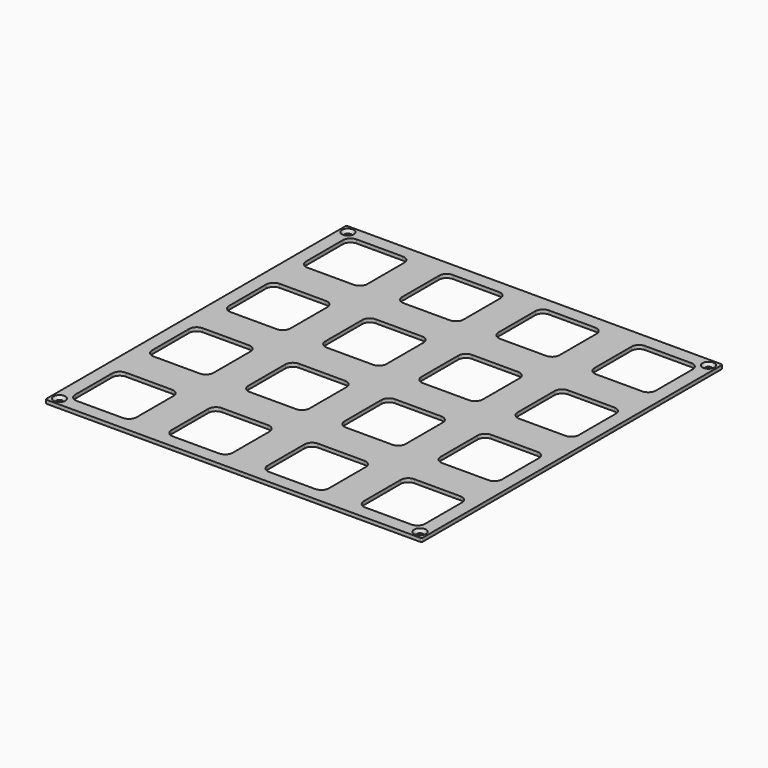
from build123d import *

# Parameters (mm, degrees)
PAD_DEPTH        = 1
POCKET_DEPTH     = 0.001
HOLE_D           = 1.75
HOLE_CSINK_D     = 3.3
HOLE_CSINK_ANGLE = 90
POCKET001_DEPTH  = 1.001


with BuildPart() as part:
    # Sketch → Pad (new body)
    with BuildSketch(Plane.XY):
        with BuildLine():
            Line((-51.8, 52.175), (51.8, 52.175))
            ThreePointArc((52.175, 51.8), (52.065165, 52.065165), (51.8, 52.175))
            Line((52.175, 51.8), (52.175, -51.8))
            ThreePointArc((51.8, -52.175), (52.065165, -52.065165), (52.175, -51.8))
            Line((51.8, -52.175), (-51.8, -52.175))
            ThreePointArc((-52.175, -51.8), (-52.065165, -52.065165), (-51.8, -52.175))
            Line((-52.175, -51.8), (-52.175, 51.8))
            ThreePointArc((-51.8, 52.175), (-52.065165, 52.065165), (-52.175, 51.8))
        make_face()
    extrude(amount=-PAD_DEPTH)

    # Sketch002 → Pocket (cut, through all)
    with BuildSketch(Plane.XY.offset(-4.8)):
        with BuildLine():
            Line((-45, 50.175), (45, 50.175))
            ThreePointArc((45, 50.175), (45.353553, 50.321447), (45.5, 50.675))
            ThreePointArc((45.5, 50.675), (45.353553, 51.028553), (45, 51.175))
            Line((-45, 51.175), (45, 51.175))
            ThreePointArc((-45, 51.175), (-45.353553, 51.028553), (-45.5, 50.675))
            ThreePointArc((-45.5, 50.675), (-45.353553, 50.321447), (-45, 50.175))
        make_face()
        with BuildLine():
            Line((-45, -51.175), (45, -51.175))
            ThreePointArc((45, -51.175), (45.353553, -51.028553), (45.5, -50.675))
            ThreePointArc((45.5, -50.675), (45.353553, -50.321447), (45, -50.175))
            Line((-45, -50.175), (45, -50.175))
            ThreePointArc((-45, -50.175), (-45.353553, -50.321447), (-45.5, -50.675))
            ThreePointArc((-45.5, -50.675), (-45.353553, -51.028553), (-45, -51.175))
        make_face()
        with BuildLine():
            Line((51.175, -45), (51.175, 45))
            ThreePointArc((51.175, 45), (51.028553, 45.353553), (50.675, 45.5))
            ThreePointArc((50.675, 45.5), (50.321447, 45.353553), (50.175, 45))
            Line((50.175, -45), (50.175, 45))
            ThreePointArc((50.175, -45), (50.321447, -45.353553), (50.675, -45.5))
            ThreePointArc((50.675, -45.5), (51.028553, -45.353553), (51.175, -45))
        make_face()
        with BuildLine():
            Line((-50.175, -45), (-50.175, 45))
            ThreePointArc((-50.175, 45), (-50.321447, 45.353553), (-50.675, 45.5))
            ThreePointArc((-50.675, 45.5), (-51.028553, 45.353553), (-51.175, 45))
            Line((-51.175, -45), (-51.175, 45))
            ThreePointArc((-51.175, -45), (-51.028553, -45.353553), (-50.675, -45.5))
            ThreePointArc((-50.675, -45.5), (-50.321447, -45.353553), (-50.175, -45))
        make_face()
    extrude(amount=-POCKET_DEPTH, mode=Mode.SUBTRACT)

    # Hole (through all)
    with Locations(Plane.XY):
        with Locations((-50, 50), (50, 50), (50, -50), (-50, -50)):
            CounterSinkHole(HOLE_D / 2, HOLE_CSINK_D / 2, counter_sink_angle=HOLE_CSINK_ANGLE)

    # Sketch008 → Pocket001 (cut, through all)
    with BuildSketch(Plane.XY):
        with BuildLine():
            Line((33.605, 31.505), (46.405, 31.505))
            ThreePointArc((46.405, 31.505), (47.889924, 32.120076), (48.505, 33.605))
            Line((48.505, 33.605), (48.505, 46.405))
            ThreePointArc((48.505, 46.405), (47.889924, 47.889924), (46.405, 48.505))
            Line((46.405, 48.505), (33.605, 48.505))
            ThreePointArc((33.605, 48.505), (32.120076, 47.889924), (31.505, 46.405))
            Line((31.505, 46.405), (31.505, 33.605))
            ThreePointArc((31.505, 33.605), (32.120076, 32.120076), (33.605, 31.505))
        make_face()
        with BuildLine():
            Line((-19.735, 31.505), (-6.935, 31.505))
            ThreePointArc((-6.935, 31.505), (-5.450076, 32.120076), (-4.835, 33.605))
            Line((-4.835, 33.605), (-4.835, 46.405))
            ThreePointArc((-4.835, 46.405), (-5.450076, 47.889924), (-6.935, 48.505))
            Line((-6.935, 48.505), (-19.735, 48.505))
            ThreePointArc((-19.735, 48.505), (-21.219924, 47.889924), (-21.835, 46.405))
            Line((-21.835, 46.405), (-21.835, 33.605))
            ThreePointArc((-21.835, 33.605), (-21.219924, 32.120076), (-19.735, 31.505))
        make_face()
        with BuildLine():
            Line((6.935, 31.505), (19.735, 31.505))
            ThreePointArc((19.735, 31.505), (21.219924, 32.120076), (21.835, 33.605))
            Line((21.835, 33.605), (21.835, 46.405))
            ThreePointArc((21.835, 46.405), (21.219924, 47.889924), (19.735, 48.505))
            Line((19.735, 48.505), (6.935, 48.505))
            ThreePointArc((6.935, 48.505), (5.450076, 47.889924), (4.835, 46.405))
            Line((4.835, 46.405), (4.835, 33.605))
            ThreePointArc((4.835, 33.605), (5.450076, 32.120076), (6.935, 31.505))
        make_face()
        with BuildLine():
            Line((33.605, 4.835), (46.405, 4.835))
            ThreePointArc((46.405, 4.835), (47.889924, 5.450076), (48.505, 6.935))
            Line((48.505, 6.935), (48.505, 19.735))
            ThreePointArc((48.505, 19.735), (47.889924, 21.219924), (46.405, 21.835))
            Line((46.405, 21.835), (33.605, 21.835))
            ThreePointArc((33.605, 21.835), (32.120076, 21.219924), (31.505, 19.735))
            Line((31.505, 19.735), (31.505, 6.935))
            ThreePointArc((31.505, 6.935), (32.120076, 5.450076), (33.605, 4.835))
        make_face()
        with BuildLine():
            Line((6.935, 4.835), (19.735, 4.835))
            ThreePointArc((19.735, 4.835), (21.219924, 5.450076), (21.835, 6.935))
            Line((21.835, 6.935), (21.835, 19.735))
            ThreePointArc((21.835, 19.735), (21.219924, 21.219924), (19.735, 21.835))
            Line((19.735, 21.835), (6.935, 21.835))
            ThreePointArc((6.935, 21.835), (5.450076, 21.219924), (4.835, 19.735))
            Line((4.835, 19.735), (4.835, 6.935))
            ThreePointArc((4.835, 6.935), (5.450076, 5.450076), (6.935, 4.835))
        make_face()
        with BuildLine():
            Line((-19.735, 4.835), (-6.935, 4.835))
            ThreePointArc((-6.935, 4.835), (-5.450076, 5.450076), (-4.835, 6.935))
            Line((-4.835, 6.935), (-4.835, 19.735))
            ThreePointArc((-4.835, 19.735), (-5.450076, 21.219924), (-6.935, 21.835))
            Line((-6.935, 21.835), (-19.735, 21.835))
            ThreePointArc((-19.735, 21.835), (-21.219924, 21.219924), (-21.835, 19.735))
            Line((-21.835, 19.735), (-21.835, 6.935))
            ThreePointArc((-21.835, 6.935), (-21.219924, 5.450076), (-19.735, 4.835))
        make_face()
        with BuildLine():
            Line((-46.405, 4.835), (-33.605, 4.835))
            ThreePointArc((-33.605, 4.835), (-32.120076, 5.450076), (-31.505, 6.935))
            Line((-31.505, 6.935), (-31.505, 19.735))
            ThreePointArc((-31.505, 19.735), (-32.120076, 21.219924), (-33.605, 21.835))
            Line((-33.605, 21.835), (-46.405, 21.835))
            ThreePointArc((-46.405, 21.835), (-47.889924, 21.219924), (-48.505, 19.735))
            Line((-48.505, 19.735), (-48.505, 6.935))
            ThreePointArc((-48.505, 6.935), (-47.889924, 5.450076), (-46.405, 4.835))
        make_face()
        with BuildLine():
            Line((33.605, -21.835), (46.405, -21.835))
            ThreePointArc((46.405, -21.835), (47.889924, -21.219924), (48.505, -19.735))
            Line((48.505, -19.735), (48.505, -6.935))
            ThreePointArc((48.505, -6.935), (47.889924, -5.450076), (46.405, -4.835))
            Line((46.405, -4.835), (33.605, -4.835))
            ThreePointArc((33.605, -4.835), (32.120076, -5.450076), (31.505, -6.935))
            Line((31.505, -6.935), (31.505, -19.735))
            ThreePointArc((31.505, -19.735), (32.120076, -21.219924), (33.605, -21.835))
        make_face()
        with BuildLine():
            Line((6.935, -21.835), (19.735, -21.835))
            ThreePointArc((19.735, -21.835), (21.219924, -21.219924), (21.835, -19.735))
            Line((21.835, -19.735), (21.835, -6.935))
            ThreePointArc((21.835, -6.935), (21.219924, -5.450076), (19.735, -4.835))
            Line((19.735, -4.835), (6.935, -4.835))
            ThreePointArc((6.935, -4.835), (5.450076, -5.450076), (4.835, -6.935))
            Line((4.835, -6.935), (4.835, -19.735))
            ThreePointArc((4.835, -19.735), (5.450076, -21.219924), (6.935, -21.835))
        make_face()
        with BuildLine():
            Line((-19.735, -21.835), (-6.935, -21.835))
            ThreePointArc((-6.935, -21.835), (-5.450076, -21.219924), (-4.835, -19.735))
            Line((-4.835, -19.735), (-4.835, -6.935))
            ThreePointArc((-4.835, -6.935), (-5.450076, -5.450076), (-6.935, -4.835))
            Line((-6.935, -4.835), (-19.735, -4.835))
            ThreePointArc((-19.735, -4.835), (-21.219924, -5.450076), (-21.835, -6.935))
            Line((-21.835, -6.935), (-21.835, -19.735))
            ThreePointArc((-21.835, -19.735), (-21.219924, -21.219924), (-19.735, -21.835))
        make_face()
        with BuildLine():
            Line((-46.405, -21.835), (-33.605, -21.835))
            ThreePointArc((-33.605, -21.835), (-32.120076, -21.219924), (-31.505, -19.735))
            Line((-31.505, -19.735), (-31.505, -6.935))
            ThreePointArc((-31.505, -6.935), (-32.120076, -5.450076), (-33.605, -4.835))
            Line((-33.605, -4.835), (-46.405, -4.835))
            ThreePointArc((-46.405, -4.835), (-47.889924, -5.450076), (-48.505, -6.935))
            Line((-48.505, -6.935), (-48.505, -19.735))
            ThreePointArc((-48.505, -19.735), (-47.889924, -21.219924), (-46.405, -21.835))
        make_face()
        with BuildLine():
            Line((33.605, -48.505), (46.405, -48.505))
            ThreePointArc((46.405, -48.505), (47.889924, -47.889924), (48.505, -46.405))
            Line((48.505, -46.405), (48.505, -33.605))
            ThreePointArc((48.505, -33.605), (47.889924, -32.120076), (46.405, -31.505))
            Line((46.405, -31.505), (33.605, -31.505))
            ThreePointArc((33.605, -31.505), (32.120076, -32.120076), (31.505, -33.605))
            Line((31.505, -33.605), (31.505, -46.405))
            ThreePointArc((31.505, -46.405), (32.120076, -47.889924), (33.605, -48.505))
        make_face()
        with BuildLine():
            Line((6.935, -48.505), (19.735, -48.505))
            ThreePointArc((19.735, -48.505), (21.219924, -47.889924), (21.835, -46.405))
            Line((21.835, -46.405), (21.835, -33.605))
            ThreePointArc((21.835, -33.605), (21.219924, -32.120076), (19.735, -31.505))
            Line((19.735, -31.505), (6.935, -31.505))
            ThreePointArc((6.935, -31.505), (5.450076, -32.120076), (4.835, -33.605))
            Line((4.835, -33.605), (4.835, -46.405))
            ThreePointArc((4.835, -46.405), (5.450076, -47.889924), (6.935, -48.505))
        make_face()
        with BuildLine():
            Line((-19.735, -48.505), (-6.935, -48.505))
            ThreePointArc((-6.935, -48.505), (-5.450076, -47.889924), (-4.835, -46.405))
            Line((-4.835, -46.405), (-4.835, -33.605))
            ThreePointArc((-4.835, -33.605), (-5.450076, -32.120076), (-6.935, -31.505))
            Line((-6.935, -31.505), (-19.735, -31.505))
            ThreePointArc((-19.735, -31.505), (-21.219924, -32.120076), (-21.835, -33.605))
            Line((-21.835, -33.605), (-21.835, -46.405))
            ThreePointArc((-21.835, -46.405), (-21.219924, -47.889924), (-19.735, -48.505))
        make_face()
        with BuildLine():
            Line((-46.405, -48.505), (-33.605, -48.505))
            ThreePointArc((-33.605, -48.505), (-32.120076, -47.889924), (-31.505, -46.405))
            Line((-31.505, -46.405), (-31.505, -33.605))
            ThreePointArc((-31.505, -33.605), (-32.120076, -32.120076), (-33.605, -31.505))
            Line((-33.605, -31.505), (-46.405, -31.505))
            ThreePointArc((-46.405, -31.505), (-47.889924, -32.120076), (-48.505, -33.605))
            Line((-48.505, -33.605), (-48.505, -46.405))
            ThreePointArc((-48.505, -46.405), (-47.889924, -47.889924), (-46.405, -48.505))
        make_face()
        with BuildLine():
            Line((-46.405, 31.505), (-33.605, 31.505))
            ThreePointArc((-33.605, 31.505), (-32.120076, 32.120076), (-31.505, 33.605))
            Line((-31.505, 33.605), (-31.505, 46.405))
            ThreePointArc((-31.505, 46.405), (-32.120076, 47.889924), (-33.605, 48.505))
            Line((-33.605, 48.505), (-46.405, 48.505))
            ThreePointArc((-46.405, 48.505), (-47.889924, 47.889924), (-48.505, 46.405))
            Line((-48.505, 46.405), (-48.505, 33.605))
            ThreePointArc((-48.505, 33.605), (-47.889924, 32.120076), (-46.405, 31.505))
        make_face()
    extrude(amount=-POCKET001_DEPTH, mode=Mode.SUBTRACT)


solid = part.part
